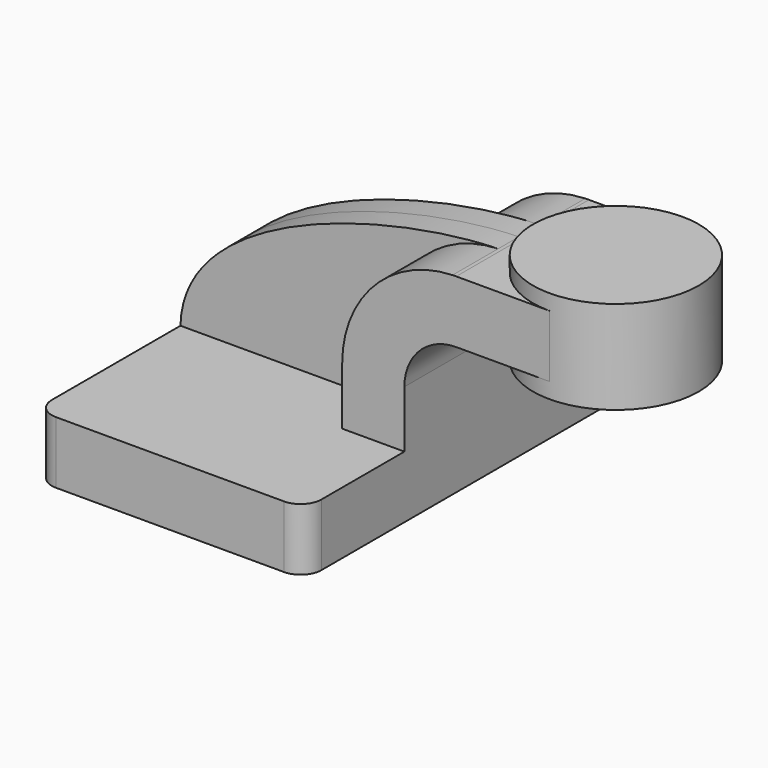
from build123d import *

# Parameters (mm, degrees)
F1_DEPTH = 63.5
F2_DEPTH = 25.4
F3_DEPTH = 7.9375
F5_R     = 6.35


with BuildPart() as f1:
    # F0 (on Front) → F1 (new body, symmetric)
    with BuildSketch(Plane.XZ):
        Polygon((-41.275, -9.525), (41.275, -9.525), (41.275, 9.525), (22.225, 9.525), (-41.275, 9.525), align=None)
    extrude(amount=F1_DEPTH, both=True)

    # F0 (on Front) → F2 (join, symmetric)
    with BuildSketch(Plane.XZ):
        with BuildLine():
            Line((22.225, 9.525), (41.275, 9.525))
            Line((41.275, 9.525), (41.275, 27.0002))
            ThreePointArc((41.275, 27.0002), (45.92468, 38.22552), (57.15, 42.8752))
            Line((57.15, 42.8752), (60.325, 42.8752))
            Line((60.325, 42.8752), (60.325, 61.9252))
            Line((60.325, 61.9252), (57.15, 61.9252))
            add(Edge.make_bspline(
                [(56.025, 61.907076), (56.404449, 61.915352), (56.7795, 61.921393), (57.15, 61.9252)],
                knots=[110.209963, 110.209963, 110.209963, 110.209963, 111.504536, 111.504536, 111.504536, 111.504536], degree=3))
            ThreePointArc((56.025, 61.907076), (32.059701, 51.294901), (22.225, 27.0002))
            Line((22.225, 27.0002), (22.225, 9.525))
        make_face()
        Polygon((60.325, 61.9252), (60.325, 42.8752), (70.739483, 42.8752), (85.725, 42.8752), (85.725, 52.3875), (85.725, 61.9252), (70.739483, 61.9252), align=None)
    extrude(amount=F2_DEPTH, both=True)

    # F0 (on Front) → F3 (join, symmetric)
    with BuildSketch(Plane.XZ):
        with BuildLine():
            add(Edge.make_bspline(
                [(-41.275, 9.525), (-40.450122, 44.294677), (23.721684, 61.202513), (56.025, 61.907076)],
                knots=[0, 0, 0, 0, 110.209963, 110.209963, 110.209963, 110.209963], degree=3))
            Line((-41.275, 9.525), (22.225, 9.525))
            Line((22.225, 9.525), (22.225, 27.0002))
            ThreePointArc((22.225, 27.0002), (32.059701, 51.294901), (56.025, 61.907076))
        make_face()
    extrude(amount=F3_DEPTH, both=True)

    # F0 (on Front) → F4 (revolve)
    with BuildSketch(Plane.XZ):
        Polygon((85.725, 42.8752), (85.725, 38.1), (111.125, 38.1), (111.125, 66.675), (85.725, 66.675), (85.725, 61.9252), (85.725, 52.3875), align=None)
    revolve(axis=Axis((85.725, 0, 40.4876), (0, 0, -1)))

    # F5
    f5_edges = [f1.edges().sort_by_distance(p)[0] for p in [
        (-41.275, -63.5, 0),
        (41.275, -63.5, 0),
        (41.275, 63.5, 0),
        (-41.275, 63.5, 0),
    ]]
    fillet(f5_edges, radius=F5_R)


solid = f1.part
